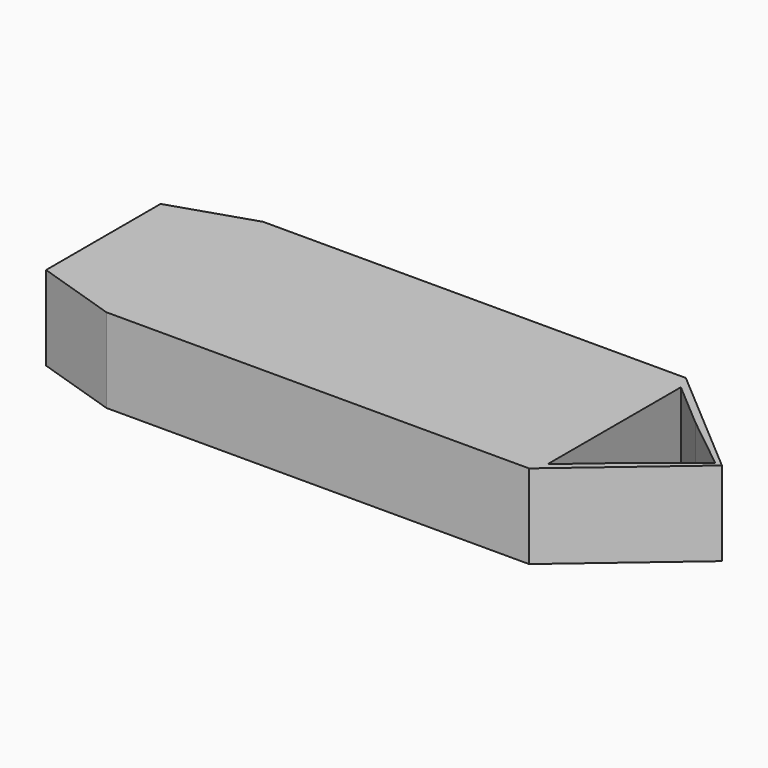
from build123d import *

# Parameters (mm, degrees)
F1_DEPTH = 12.7
F3_DEPTH = 21.59


with BuildPart() as f1:
    # F0 (on Top) → F1 (new body)
    with BuildSketch(Plane.XY):
        Polygon((33.208514, -8.155814), (33.208514, 21.379727), (-30.508613, 21.379727), (-42.787436, 17.397408), (-42.787436, -4.173495), (-30.508613, -8.155814), align=None)
        Polygon((33.208514, -8.155814), (50.465232, 6.611957), (33.208514, 21.379727), align=None)
        Polygon((49.4617, 6.611957), (41.17628, 0), (34.235716, -5.939522), (34.235716, 6.611957), (34.235716, 19.163436), (41.17628, 13.223914), align=None, mode=Mode.SUBTRACT)
    extrude(amount=F1_DEPTH)

    # F2 (on face) → F3 (cut)
    with BuildSketch(Plane(origin=(-42.787436, 0, 0), x_dir=(0, -1, 0), z_dir=(-1, 0, 0))):
        Polygon((-15.368456, 11.105623), (-15.368456, 6.35), (-15.368456, 1.594377), (2.144542, 1.594377), (2.144542, 6.35), (2.144542, 11.105623), align=None)
    extrude(amount=-F3_DEPTH, mode=Mode.SUBTRACT)


solid = f1.part
